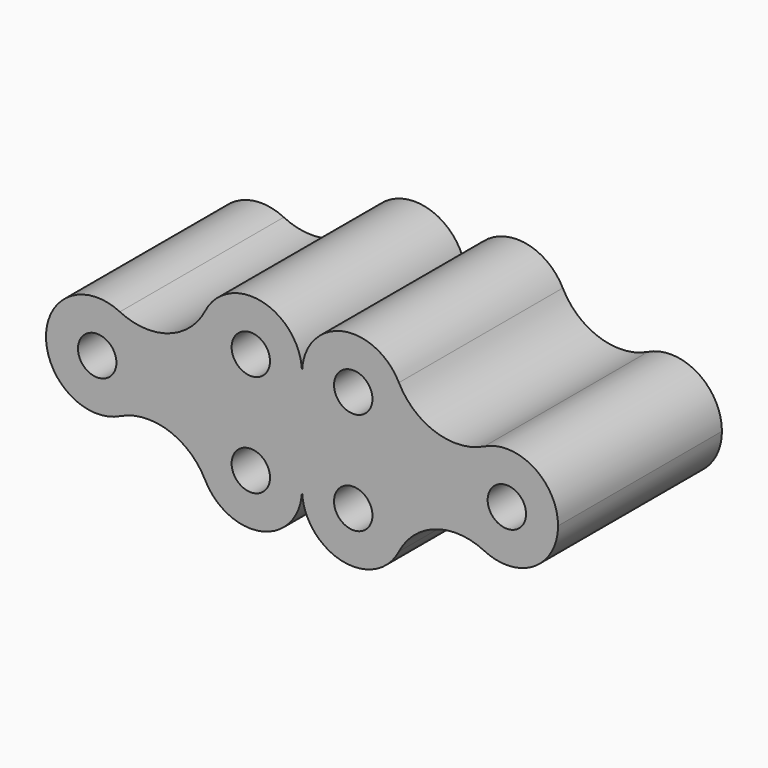
from build123d import *

# Parameters (mm, degrees)
F0_R     = 9.525
F1_DEPTH = 50.8


with BuildPart() as f1:
    # F0 (on Front) → F1 (new body, symmetric)
    with BuildSketch(Plane.XZ):
        with BuildLine():
            ThreePointArc((11.2422, -22.776587), (21.57211, -13.409103), (25.4, 0))
            ThreePointArc((25.4, 0), (21.57211, 13.409103), (11.2422, 22.776587))
            ThreePointArc((11.2422, 22.776587), (-25.4, 0), (11.2422, -22.776587))
        make_face()
        Circle(F0_R, mode=Mode.SUBTRACT)
        with BuildLine():
            ThreePointArc((11.2422, 22.776587), (21.57211, 13.409103), (25.4, 0))
            ThreePointArc((25.4, 0), (21.57211, -13.409103), (11.2422, -22.776587))
            ThreePointArc((11.2422, -22.776587), (35.275017, -21.17495), (53.540287, -36.87595))
            ThreePointArc((53.540287, -36.87595), (82.099292, -50.105432), (101.6, -25.4))
            ThreePointArc((101.6, -25.4), (121.100708, -50.105432), (149.659713, -36.87595))
            ThreePointArc((149.659713, -36.87595), (167.924983, -21.17495), (191.9578, -22.776587))
            ThreePointArc((191.9578, -22.776587), (177.8, 0), (191.9578, 22.776587))
            ThreePointArc((191.9578, 22.776587), (167.924983, 21.17495), (149.659713, 36.87595))
            ThreePointArc((149.659713, 36.87595), (121.100708, 50.105432), (101.6, 25.4))
            ThreePointArc((101.6, 25.4), (82.099292, 50.105432), (53.540287, 36.87595))
            ThreePointArc((53.540287, 36.87595), (35.275017, 21.17495), (11.2422, 22.776587))
        make_face()
        with Locations((76.2, -25.4)):
            Circle(F0_R, mode=Mode.SUBTRACT)
        with Locations((127, -25.4)):
            Circle(F0_R, mode=Mode.SUBTRACT)
        with Locations((76.2, 25.4)):
            Circle(F0_R, mode=Mode.SUBTRACT)
        with Locations((127, 25.4)):
            Circle(F0_R, mode=Mode.SUBTRACT)
        with BuildLine():
            ThreePointArc((228.6, 0), (216.609103, 21.57211), (191.9578, 22.776587))
            ThreePointArc((191.9578, 22.776587), (177.8, 0), (191.9578, -22.776587))
            ThreePointArc((191.9578, -22.776587), (216.609103, -21.57211), (228.6, 0))
        make_face()
        with Locations((203.2, 0)):
            Circle(F0_R, mode=Mode.SUBTRACT)
    extrude(amount=F1_DEPTH, both=True)


solid = f1.part
